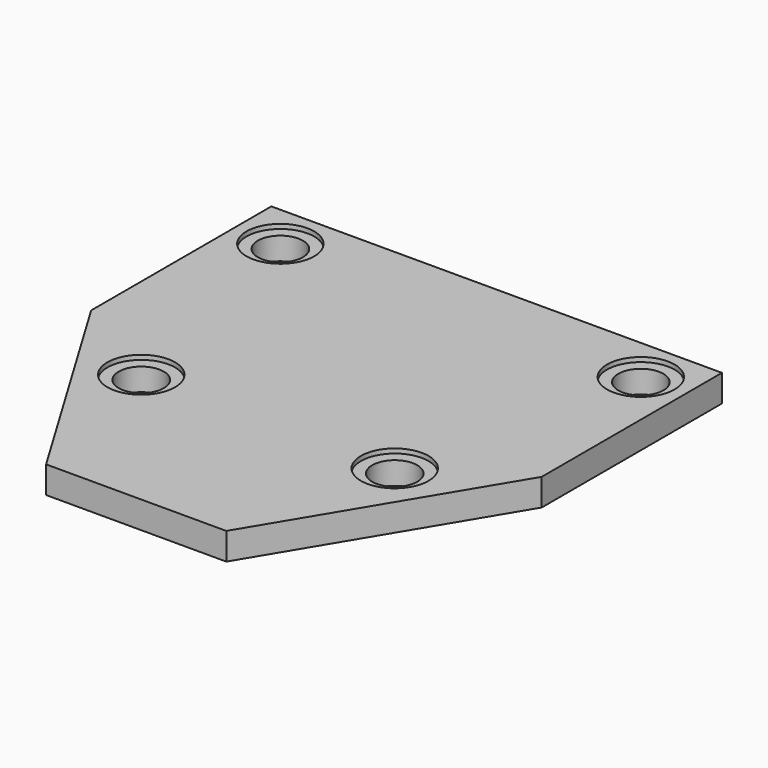
from build123d import *

# Parameters (mm, degrees)
F0_R     = 9.525
F2_DEPTH = 7.62
F0_R_2   = 6.35
F3_DEPTH = 6.35


with BuildPart() as f2:
    # F0 (on Top) → F2 (new body)
    with BuildSketch(Plane.XY):
        Polygon((-63.5, 0), (-25.4, -63.5), (25.4, -63.5), (63.5, 0), (63.5, 63.5), (-63.5, 63.5), align=None)
        with Locations((-35.722047, -17.059289)):
            Circle(F0_R, mode=Mode.SUBTRACT)
        with Locations((35.722047, -17.059289)):
            Circle(F0_R, mode=Mode.SUBTRACT)
        with Locations((-50.8, 50.8)):
            Circle(F0_R, mode=Mode.SUBTRACT)
        with Locations((50.8, 50.8)):
            Circle(F0_R, mode=Mode.SUBTRACT)
    extrude(amount=F2_DEPTH)

    # F0 (on Top) → F3 (join)
    with BuildSketch(Plane.XY):
        with Locations((-50.8, 50.8)):
            Circle(F0_R)
        with Locations((-50.8, 50.8)):
            Circle(F0_R_2, mode=Mode.SUBTRACT)
        with Locations((50.8, 50.8)):
            Circle(F0_R)
        with Locations((50.8, 50.8)):
            Circle(F0_R_2, mode=Mode.SUBTRACT)
        with Locations((35.722047, -17.059289)):
            Circle(F0_R)
        with Locations((35.722047, -17.059289)):
            Circle(F0_R_2, mode=Mode.SUBTRACT)
        with Locations((-35.722047, -17.059289)):
            Circle(F0_R)
        with Locations((-35.722047, -17.059289)):
            Circle(F0_R_2, mode=Mode.SUBTRACT)
    extrude(amount=F3_DEPTH)


solid = f2.part
